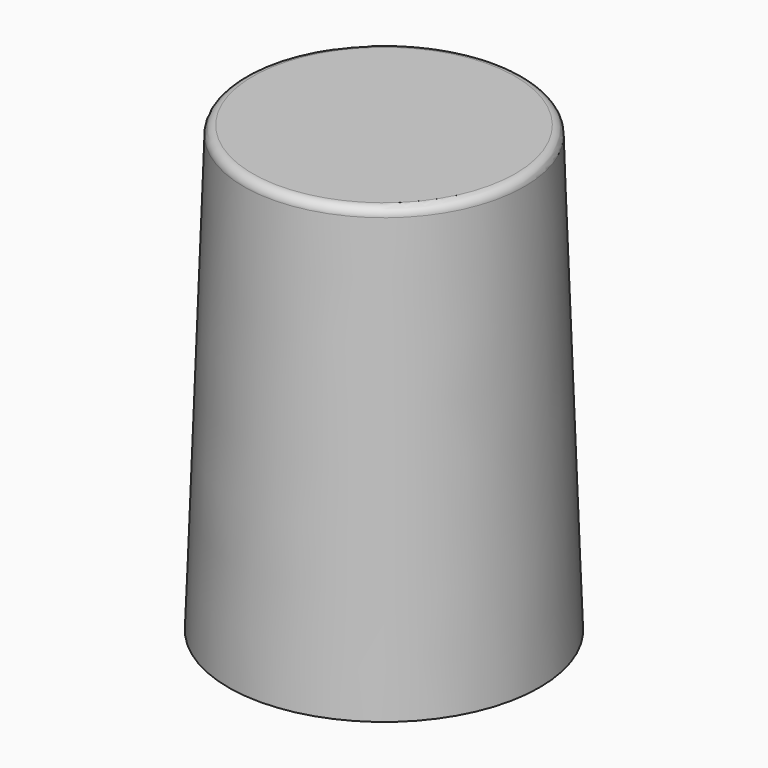
from build123d import *

# Parameters (mm, degrees)
F0_R     = 8.89
F1_DEPTH = 25.4
F1_TAPER = 2
F2_T     = -0.508
F3_R     = 0.508


with BuildPart() as f1:
    # F0 (on Top) → F1 (new body)
    with BuildSketch(Plane.XY):
        Circle(F0_R)
    extrude(amount=F1_DEPTH, taper=F1_TAPER)

    # F2
    f2_openings = [f1.faces().sort_by_distance(p)[0] for p in [
        (0, 0, 0),
    ]]
    offset(amount=F2_T, openings=f2_openings)

    # F3
    f3_edges = [f1.edges().sort_by_distance(p)[0] for p in [
        (-8.003012, 0, 25.4),
    ]]
    fillet(f3_edges, radius=F3_R)


solid = f1.part
